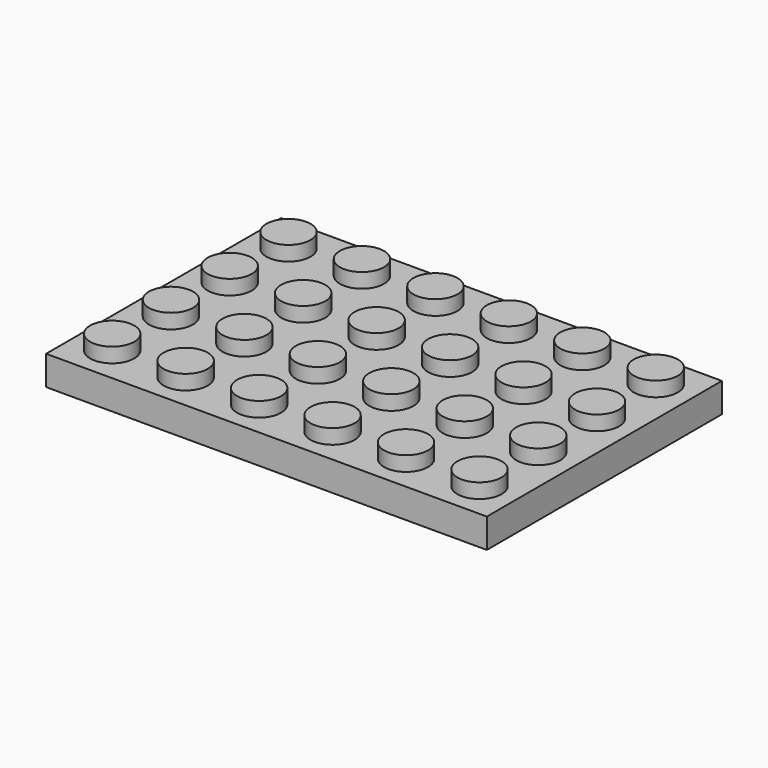
from build123d import *

# Parameters (mm, degrees)
F0_W     = 47.625
F0_H     = 31.75
F0_R     = 2.38125
F1_DEPTH = 3.175
F2_DEPTH = 4.7625
F3_T     = -1.5875
F4_R     = 3.175
F4_R_2   = 2.38125
F5_DEPTH = 1.5875


with BuildPart() as f1:
    # F0 (on Top) → F1 (new body)
    with BuildSketch(Plane.XY):
        with Locations((7.9375, -11.90625)):
            Rectangle(F0_W, F0_H)
        with Locations((-11.90625, -23.8125)):
            Circle(F0_R, mode=Mode.SUBTRACT)
        with Locations((-3.96875, -23.8125)):
            Circle(F0_R, mode=Mode.SUBTRACT)
        with Locations((3.96875, -23.8125)):
            Circle(F0_R, mode=Mode.SUBTRACT)
        with Locations((-11.90625, -15.875)):
            Circle(F0_R, mode=Mode.SUBTRACT)
        with Locations((-3.96875, -15.875)):
            Circle(F0_R, mode=Mode.SUBTRACT)
        with Locations((3.96875, -15.875)):
            Circle(F0_R, mode=Mode.SUBTRACT)
        with Locations((11.90625, -23.8125)):
            Circle(F0_R, mode=Mode.SUBTRACT)
        with Locations((19.84375, -23.8125)):
            Circle(F0_R, mode=Mode.SUBTRACT)
        with Locations((27.78125, -23.8125)):
            Circle(F0_R, mode=Mode.SUBTRACT)
        with Locations((11.90625, -15.875)):
            Circle(F0_R, mode=Mode.SUBTRACT)
        with Locations((19.84375, -15.875)):
            Circle(F0_R, mode=Mode.SUBTRACT)
        with Locations((27.78125, -15.875)):
            Circle(F0_R, mode=Mode.SUBTRACT)
        with Locations((-11.90625, -7.9375)):
            Circle(F0_R, mode=Mode.SUBTRACT)
        with Locations((-3.96875, -7.9375)):
            Circle(F0_R, mode=Mode.SUBTRACT)
        with Locations((3.96875, -7.9375)):
            Circle(F0_R, mode=Mode.SUBTRACT)
        with Locations((-11.90625, 0)):
            Circle(F0_R, mode=Mode.SUBTRACT)
        with Locations((-3.96875, 0)):
            Circle(F0_R, mode=Mode.SUBTRACT)
        with Locations((3.96875, 0)):
            Circle(F0_R, mode=Mode.SUBTRACT)
        with Locations((11.90625, -7.9375)):
            Circle(F0_R, mode=Mode.SUBTRACT)
        with Locations((19.84375, -7.9375)):
            Circle(F0_R, mode=Mode.SUBTRACT)
        with Locations((27.78125, -7.9375)):
            Circle(F0_R, mode=Mode.SUBTRACT)
        with Locations((11.90625, 0)):
            Circle(F0_R, mode=Mode.SUBTRACT)
        with Locations((19.84375, 0)):
            Circle(F0_R, mode=Mode.SUBTRACT)
        with Locations((27.78125, 0)):
            Circle(F0_R, mode=Mode.SUBTRACT)
    extrude(amount=F1_DEPTH)

    # F0 (on Top) → F2 (join)
    with BuildSketch(Plane.XY):
        with Locations((-11.90625, 0)):
            Circle(F0_R)
        with Locations((-11.90625, -7.9375)):
            Circle(F0_R)
        with Locations((-3.96875, -7.9375)):
            Circle(F0_R)
        with Locations((-3.96875, 0)):
            Circle(F0_R)
        with Locations((3.96875, 0)):
            Circle(F0_R)
        with Locations((3.96875, -7.9375)):
            Circle(F0_R)
        with Locations((11.90625, -7.9375)):
            Circle(F0_R)
        with Locations((11.90625, 0)):
            Circle(F0_R)
        with Locations((19.84375, 0)):
            Circle(F0_R)
        with Locations((27.78125, 0)):
            Circle(F0_R)
        with Locations((27.78125, -7.9375)):
            Circle(F0_R)
        with Locations((19.84375, -7.9375)):
            Circle(F0_R)
        with Locations((-11.90625, -15.875)):
            Circle(F0_R)
        with Locations((-3.96875, -15.875)):
            Circle(F0_R)
        with Locations((3.96875, -15.875)):
            Circle(F0_R)
        with Locations((11.90625, -15.875)):
            Circle(F0_R)
        with Locations((19.84375, -15.875)):
            Circle(F0_R)
        with Locations((27.78125, -15.875)):
            Circle(F0_R)
        with Locations((27.78125, -23.8125)):
            Circle(F0_R)
        with Locations((19.84375, -23.8125)):
            Circle(F0_R)
        with Locations((11.90625, -23.8125)):
            Circle(F0_R)
        with Locations((3.96875, -23.8125)):
            Circle(F0_R)
        with Locations((-3.96875, -23.8125)):
            Circle(F0_R)
        with Locations((-11.90625, -23.8125)):
            Circle(F0_R)
    extrude(amount=F2_DEPTH)

    # F3
    f3_openings = [f1.faces().sort_by_distance(p)[0] for p in [
        (7.9375, -11.90625, 0),
    ]]
    offset(amount=F3_T, openings=f3_openings, kind=Kind.INTERSECTION)

    # F4 (on face) → F5 (join)
    with BuildSketch(Plane(origin=(0, 0, 1.5875), x_dir=(1, 0, 0), z_dir=(0, 0, -1))):
        with Locations((-7.9375, 19.84375)):
            Circle(F4_R)
        with Locations((-7.9375, 19.84375)):
            Circle(F4_R_2, mode=Mode.SUBTRACT)
        with Locations((0, 19.84375)):
            Circle(F4_R)
        with Locations((0, 19.84375)):
            Circle(F4_R_2, mode=Mode.SUBTRACT)
        with Locations((7.9375, 19.84375)):
            Circle(F4_R)
        with Locations((7.9375, 19.84375)):
            Circle(F4_R_2, mode=Mode.SUBTRACT)
        with Locations((15.875, 19.84375)):
            Circle(F4_R)
        with Locations((15.875, 19.84375)):
            Circle(F4_R_2, mode=Mode.SUBTRACT)
        with Locations((23.8125, 19.84375)):
            Circle(F4_R)
        with Locations((23.8125, 19.84375)):
            Circle(F4_R_2, mode=Mode.SUBTRACT)
        with Locations((23.8125, 11.90625)):
            Circle(F4_R)
        with Locations((23.8125, 11.90625)):
            Circle(F4_R_2, mode=Mode.SUBTRACT)
        with Locations((15.875, 11.90625)):
            Circle(F4_R)
        with Locations((15.875, 11.90625)):
            Circle(F4_R_2, mode=Mode.SUBTRACT)
        with Locations((7.9375, 11.90625)):
            Circle(F4_R)
        with Locations((7.9375, 11.90625)):
            Circle(F4_R_2, mode=Mode.SUBTRACT)
        with Locations((0, 11.90625)):
            Circle(F4_R)
        with Locations((0, 11.90625)):
            Circle(F4_R_2, mode=Mode.SUBTRACT)
        with Locations((-7.9375, 11.90625)):
            Circle(F4_R)
        with Locations((-7.9375, 11.90625)):
            Circle(F4_R_2, mode=Mode.SUBTRACT)
        with BuildLine():
            ThreePointArc((-4.7625, 3.96875), (-6.7224801022, 6.9020675157), (-10.1825640303, 6.2138140303))
            Line((-10.1825640303, 6.2138140303), (-9.6212980227, 5.6525480227))
            ThreePointArc((-9.6212980227, 5.6525480227), (-7.0262350767, 6.1687381368), (-5.55625, 3.96875))
            ThreePointArc((-5.55625, 3.96875), (-5.7375118632, 3.0574850767), (-6.2537019773, 2.2849519773))
            Line((-6.2537019773, 2.2849519773), (-5.6924359697, 1.7236859697))
            ThreePointArc((-5.6924359697, 1.7236859697), (-5.0041824843, 2.7537301022), (-4.7625, 3.96875))
        make_face()
        with BuildLine():
            Line((-9.6212980227, 5.6525480227), (-10.1825640303, 6.2138140303))
            ThreePointArc((-10.1825640303, 6.2138140303), (-10.1825640303, 1.7236859697), (-5.6924359697, 1.7236859697))
            Line((-5.6924359697, 1.7236859697), (-6.2537019773, 2.2849519773))
            ThreePointArc((-6.2537019773, 2.2849519773), (-9.6212980227, 2.2849519773), (-9.6212980227, 5.6525480227))
        make_face()
        with Locations((0, 3.96875)):
            Circle(F4_R)
        with Locations((0, 3.96875)):
            Circle(F4_R_2, mode=Mode.SUBTRACT)
        with Locations((7.9375, 3.96875)):
            Circle(F4_R)
        with Locations((7.9375, 3.96875)):
            Circle(F4_R_2, mode=Mode.SUBTRACT)
        with Locations((15.875, 3.96875)):
            Circle(F4_R)
        with Locations((15.875, 3.96875)):
            Circle(F4_R_2, mode=Mode.SUBTRACT)
        with Locations((23.8125, 3.96875)):
            Circle(F4_R)
        with Locations((23.8125, 3.96875)):
            Circle(F4_R_2, mode=Mode.SUBTRACT)
    extrude(amount=F5_DEPTH)


solid = f1.part
